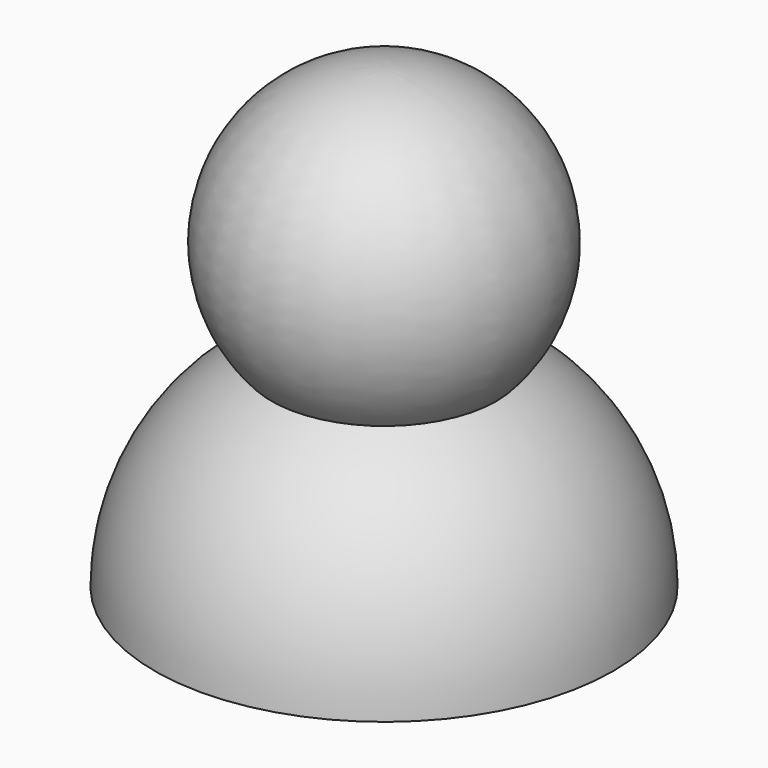
from build123d import *


with BuildPart() as f1:
    # F0 (on Front) → F1 (revolve)
    with BuildSketch(Plane.XZ):
        with BuildLine():
            Line((29.872737, 0), (36.546143, 0))
            ThreePointArc((36.546143, 0), (31.556174, 18.434436), (17.948917, 31.834838))
            ThreePointArc((17.948917, 31.834838), (22.320217, 58.13199), (0, 72.707871))
            Line((0, 72.707871), (0, 66.94418))
            ThreePointArc((0, 66.94418), (17.404075, 54.931368), (12.344034, 34.398334))
            Line((12.344034, 34.398334), (12.241549, 27.24931))
            ThreePointArc((12.241549, 27.24931), (25.08056, 16.227937), (29.872737, 0))
        make_face()
    revolve(axis=Axis((0, 0, 24.165163), (0, 0, 1)))


solid = f1.part
